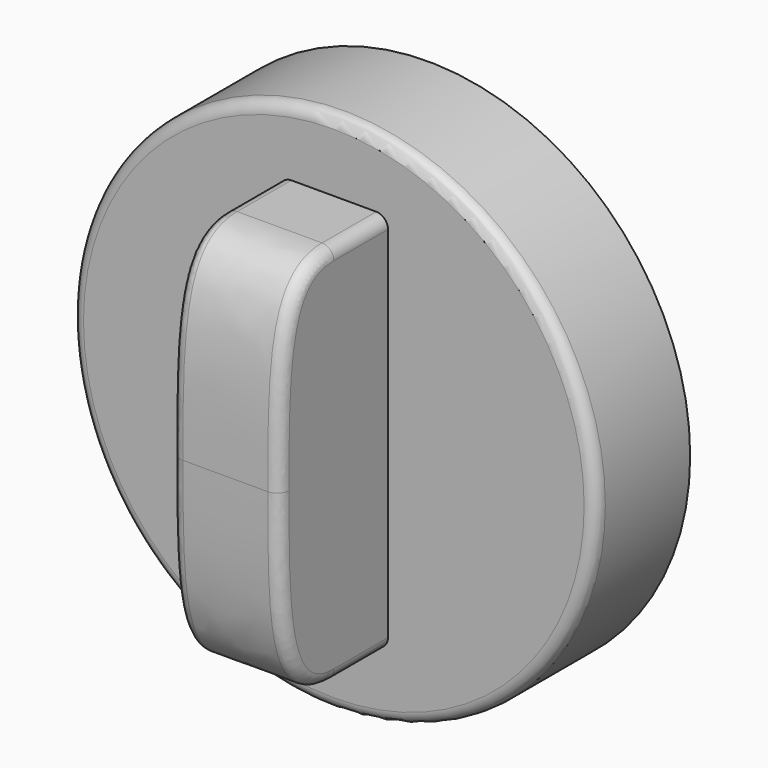
from build123d import *

# Parameters (mm, degrees)
F0_R     = 22.25
F1_DEPTH = 10
F2_W     = 9.2
F2_H     = 32.5
F3_DEPTH = 11.5
F5_DEPTH = 10
F6_R     = 1
F7_T     = -1.75
F8_W     = 1
F8_H     = 4.1
F9_DEPTH = 10
F10_R    = 1


with BuildPart() as f1:
    # F0 (on Front) → F1 (new body)
    with BuildSketch(Plane.XZ):
        Circle(F0_R)
    extrude(amount=F1_DEPTH)

    # F2 (on face) → F3 (join)
    with BuildSketch(Plane.XZ.offset(10)):
        Rectangle(F2_W, F2_H)
    extrude(amount=F3_DEPTH)

    # F4 (on face) → F5 (cut)
    with BuildSketch(Plane.YZ.offset(4.6)):
        with BuildLine():
            Line((-21.5, 16.25), (-21.5, 0))
            add(Edge.make_bspline(
                [(-21.5, 0), (-21.5, 9.096233188), (-21.5, 16.25), (-15.75, 16.25)],
                knots=[0, 0, 0, 0, 17.2373141759, 17.2373141759, 17.2373141759, 17.2373141759], degree=3))
            Line((-15.75, 16.25), (-21.5, 16.25))
        make_face()
        with BuildLine():
            add(Edge.make_bspline(
                [(-21.5, 0), (-21.5, -9.096233188), (-21.5, -16.25), (-15.75, -16.25)],
                knots=[0, 0, 0, 0, 17.2373141759, 17.2373141759, 17.2373141759, 17.2373141759], degree=3))
            Line((-21.5, 0), (-21.5, -16.25))
            Line((-21.5, -16.25), (-15.75, -16.25))
        make_face()
    extrude(amount=-F5_DEPTH, mode=Mode.SUBTRACT)

    # F6
    f6_edges = [f1.edges().sort_by_distance(p)[0] for p in [
        (4.6, -12.875, -16.25),
        (-4.6, -21.14469, -9.555694),
    ]]
    fillet(f6_edges, radius=F6_R)

    # F7
    f7_openings = [f1.faces().sort_by_distance(p)[0] for p in [
        (0, 0, 0),
    ]]
    offset(amount=F7_T, openings=f7_openings, kind=Kind.INTERSECTION)

    # F8 (on Front) → F9 (join)
    with BuildSketch(Plane.XZ):
        with Locations((0, 18.524242565)):
            Rectangle(F8_W, F8_H)
    extrude(amount=F9_DEPTH)

    # F10
    f10_edges = [f1.edges().sort_by_distance(p)[0] for p in [
        (-22.25, -10, 0),
    ]]
    fillet(f10_edges, radius=F10_R)


solid = f1.part
